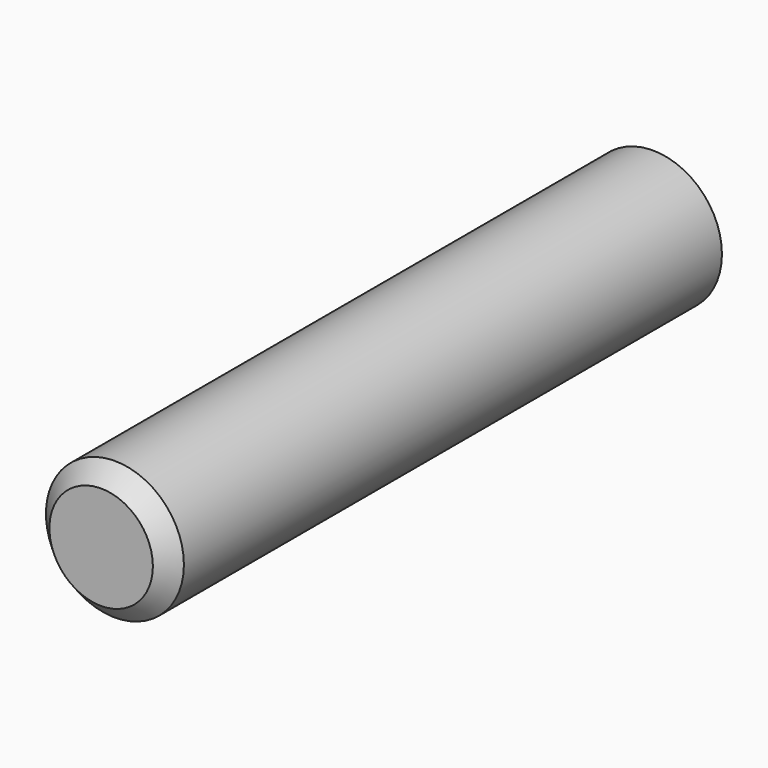
from build123d import *

# Parameters (mm, degrees)
SKETCH_R     = 4
PAD_DEPTH    = 40
CHAMFER_SIZE = 1


with BuildPart() as part:
    # Sketch → Pad (new body)
    with BuildSketch(Plane.XZ):
        Circle(SKETCH_R)
    extrude(amount=PAD_DEPTH)

    # Chamfer
    chamfer_edges = [part.edges().sort_by_distance(p)[0] for p in [
        (-4, -40, 0),
    ]]
    chamfer(chamfer_edges, length=CHAMFER_SIZE)


solid = part.part
